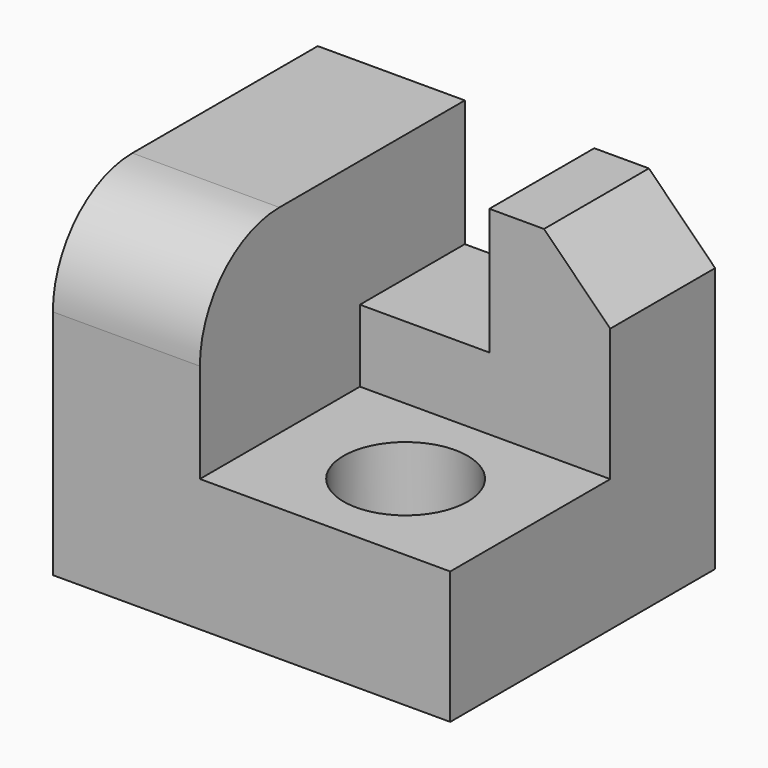
from build123d import *

# Parameters (mm, degrees)
F0_W     = 152.4
F0_H     = 127
F1_DEPTH = 63.5
F2_W     = 96.0077429086
F2_H     = 76.7051585242
F3_DEPTH = 76.2
F4_W     = 49.6507994831
F4_H     = 48.5305104628
F5_DEPTH = 75.184
F6_R     = 38.1
F7_SIZE  = 25.4
F8_R     = 23.7983401661
F9_DEPTH = 86.36


with BuildPart() as f1:
    # F0 (on Front) → F1 (new body, symmetric)
    with BuildSketch(Plane.XZ):
        Rectangle(F0_W, F0_H)
    extrude(amount=F1_DEPTH, both=True)

    # F2 (on face) → F3 (cut)
    with BuildSketch(Plane.XY.offset(63.5)):
        with Locations((28.1961285457, -25.1474207379)):
            Rectangle(F2_W, F2_H)
    extrude(amount=-F3_DEPTH, mode=Mode.SUBTRACT)

    # F4 (on face) → F5 (cut)
    with BuildSketch(Plane.XZ.offset(-13.2051585242)):
        with Locations((5.0176568329, 39.2347447686)):
            Rectangle(F4_W, F4_H)
    extrude(amount=-F5_DEPTH, mode=Mode.SUBTRACT)

    # F6
    f6_edges = [f1.edges().sort_by_distance(p)[0] for p in [
        (-48.003871, -63.5, 63.5),
    ]]
    fillet(f6_edges, radius=F6_R)

    # F7
    f7_edges = [f1.edges().sort_by_distance(p)[0] for p in [
        (76.2, 38.352579, 63.5),
    ]]
    chamfer(f7_edges, length=F7_SIZE)

    # F8 (on face) → F9 (cut)
    with BuildSketch(Plane.XY.offset(-12.7)):
        with Locations((28.1961299479, -24.8870439827)):
            Circle(F8_R)
    extrude(amount=-F9_DEPTH, mode=Mode.SUBTRACT)


solid = f1.part
